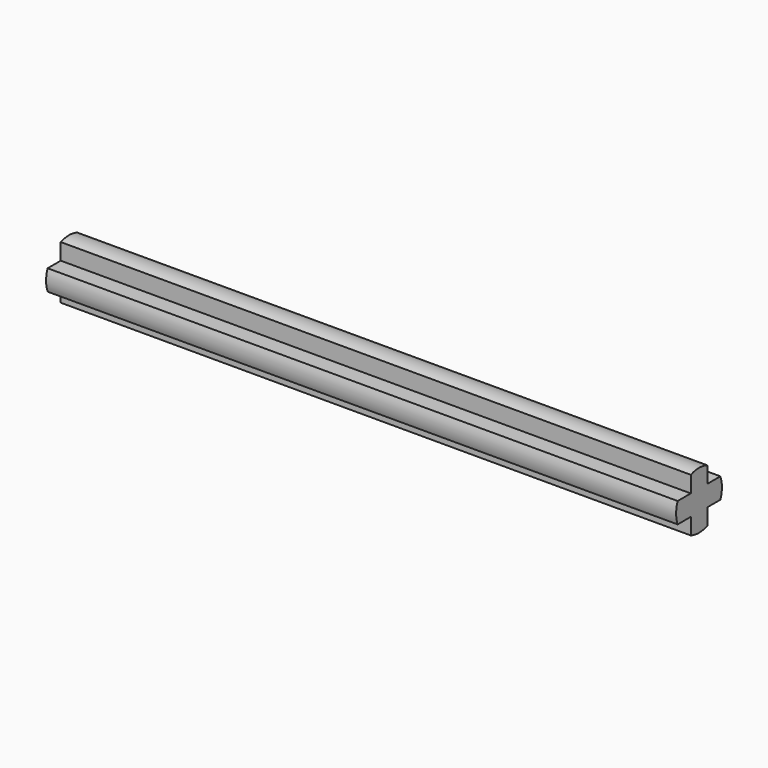
from build123d import *

# Parameters (mm, degrees)
F1_DEPTH = 27.5


with BuildPart() as f1:
    # F0 (on Right) → F1 (new body, symmetric)
    with BuildSketch(Plane.YZ):
        with BuildLine():
            Line((0.962437, -0.907983), (2.393746, -0.907983))
            ThreePointArc((2.393746, -0.907983), (2.561437, -0.007983), (2.393746, 0.892017))
            Line((2.393746, 0.892017), (0.962437, 0.892017))
            Line((0.962437, 0.892017), (0.962437, 2.323326))
            ThreePointArc((0.962437, 2.323326), (0.062437, 2.491017), (-0.837563, 2.323326))
            Line((-0.837563, 2.323326), (-0.837563, 0.892017))
            Line((-0.837563, 0.892017), (-2.268871, 0.892017))
            ThreePointArc((-2.268871, 0.892017), (-2.436563, -0.007983), (-2.268871, -0.907983))
            Line((-2.268871, -0.907983), (-0.837563, -0.907983))
            Line((-0.837563, -0.907983), (-0.837563, -2.339292))
            ThreePointArc((-0.837563, -2.339292), (0.062437, -2.506983), (0.962437, -2.339292))
            Line((0.962437, -2.339292), (0.962437, -0.907983))
        make_face()
    extrude(amount=F1_DEPTH, both=True)


solid = f1.part
